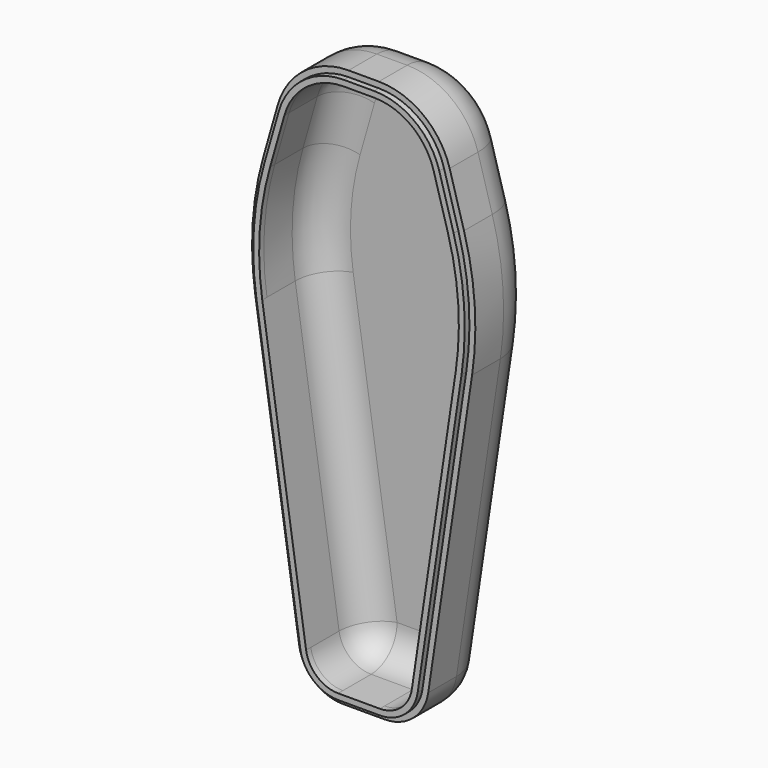
from build123d import *

# Parameters (mm, degrees)
F1_DEPTH = 34.29
F3_R     = 31.75
F4_R     = 127
F5_R     = 19.05
F6_R     = 19.05
F7_T     = -5.08
F9_DEPTH = 2.54


with BuildPart() as f1:
    # F0 (on Front) → F1 (new body)
    with BuildSketch(Plane.XZ):
        Polygon((0, -193.235434227), (0, 48.064565773), (-30.48, 48.064565773), (-50.8, -23.055434227), (-25.4, -193.235434227), align=None)
    extrude(amount=F1_DEPTH)

    # F2: F1 across face


with BuildPart() as f1_1:
    add(f1.part)
    add(f1.part.mirror(Plane(origin=(0, -17.145, -72.585434227), x_dir=(0, 1, 0), z_dir=(1, 0, 0))))

    # F3
    f3_edges = [f1_1.edges().sort_by_distance(p)[0] for p in [
        (-30.48, -17.145, 48.064566),
        (30.48, -17.145, 48.064566),
    ]]
    fillet(f3_edges, radius=F3_R)

    # F4
    f4_edges = [f1_1.edges().sort_by_distance(p)[0] for p in [
        (-50.8, -17.145, -23.055434),
        (50.8, -17.145, -23.055434),
    ]]
    fillet(f4_edges, radius=F4_R)

    # F5
    f5_edges = [f1_1.edges().sort_by_distance(p)[0] for p in [
        (-25.4, -17.145, -193.235434),
        (25.4, -17.145, -193.235434),
    ]]
    fillet(f5_edges, radius=F5_R)

    # F6
    f6_edges = [f1_1.edges().sort_by_distance(p)[0] for p in [
        (37.282158, 0, -113.624977),
    ]]
    fillet(f6_edges, radius=F6_R)

    # F7
    f7_openings = [f1_1.faces().sort_by_distance(p)[0] for p in [
        (0, -34.29, -66.112083),
    ]]
    offset(amount=F7_T, openings=f7_openings)

    # F8 (on face) → F9 (join)
    with BuildSketch(Plane.XZ.offset(34.29)):
        with BuildLine():
            Line((6.530930145, 45.524565773), (-6.530930145, 45.524565773))
            ThreePointArc((-6.530930145, 45.524565773), (-24.121061084, 39.6343297845), (-34.6170446556, 24.3391699189))
            Line((-34.6170446556, 24.3391699189), (-40.8033894121, 2.6869632712))
            ThreePointArc((-40.8033894121, 2.6869632712), (-45.3287249612, -23.411952422), (-44.2285808171, -49.8774345649))
            Line((-44.2285808171, -49.8774345649), (-25.3113894552, -176.6226166898))
            ThreePointArc((-25.3113894552, -176.6226166898), (-19.7605371668, -186.6917922592), (-8.9822669545, -190.695434227))
            Line((-8.9822669545, -190.695434227), (8.9822669545, -190.695434227))
            ThreePointArc((8.9822669545, -190.695434227), (19.7605371668, -186.6917922592), (25.3113894552, -176.6226166898))
            Line((25.3113894552, -176.6226166898), (44.2285808171, -49.8774345649))
            ThreePointArc((44.2285808171, -49.8774345649), (45.3287249612, -23.411952422), (40.8033894121, 2.6869632712))
            Line((40.8033894121, 2.6869632712), (34.6170446556, 24.3391699189))
            ThreePointArc((34.6170446556, 24.3391699189), (24.121061084, 39.6343297845), (6.530930145, 45.524565773))
        make_face()
        with BuildLine():
            ThreePointArc((-32.1747738286, 23.641378254), (-22.5914844806, 37.6065242183), (-6.530930145, 42.984565773))
            Line((-6.530930145, 42.984565773), (6.530930145, 42.984565773))
            ThreePointArc((6.530930145, 42.984565773), (22.5914844806, 37.6065242183), (32.1747738286, 23.641378254))
            Line((32.1747738286, 23.641378254), (38.3611185851, 1.9891716064))
            ThreePointArc((38.3611185851, 1.9891716064), (42.7941003475, -23.5771131543), (41.7164081247, -49.5024834167))
            Line((41.7164081247, -49.5024834167), (22.7992167628, -176.2476655417))
            ThreePointArc((22.7992167628, -176.2476655417), (18.1023417495, -184.7677371773), (8.9822669545, -188.155434227))
            Line((8.9822669545, -188.155434227), (-8.9822669545, -188.155434227))
            ThreePointArc((-8.9822669545, -188.155434227), (-18.1023417495, -184.7677371773), (-22.7992167628, -176.2476655417))
            Line((-22.7992167628, -176.2476655417), (-41.7164081247, -49.5024834167))
            ThreePointArc((-41.7164081247, -49.5024834167), (-42.7941003475, -23.5771131543), (-38.3611185851, 1.9891716064))
            Line((-38.3611185851, 1.9891716064), (-32.1747738286, 23.641378254))
        make_face(mode=Mode.SUBTRACT)
    extrude(amount=F9_DEPTH)


solid = f1_1.part
